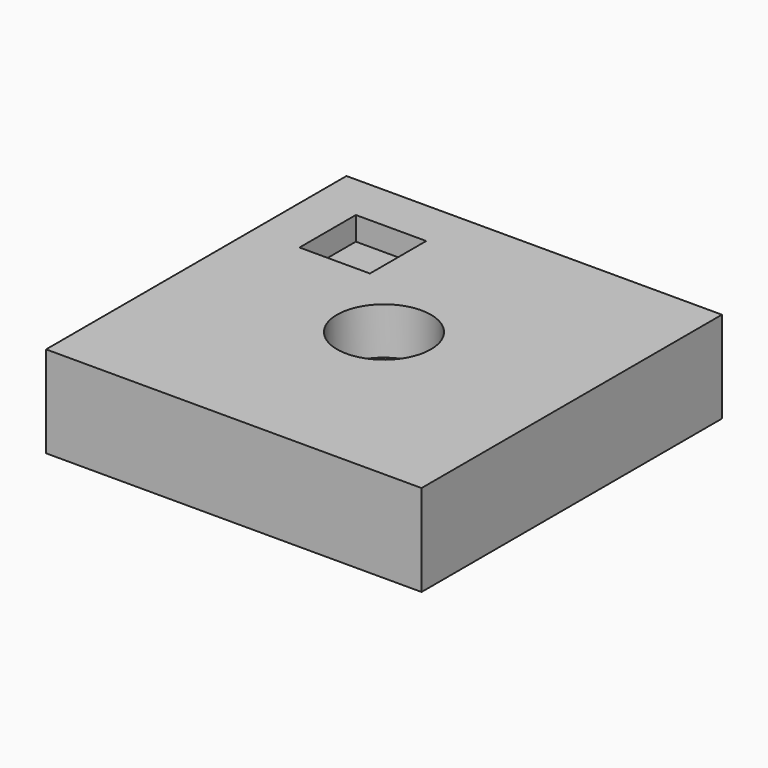
from build123d import *

# Parameters (mm, degrees)
F0_W     = 101.6
F0_H     = 101.6
F1_DEPTH = 24.765
F2_W     = 19.05
F2_H     = 19.05
F3_DEPTH = 6.35
F2_R     = 12.7
F4_DEPTH = 12.7


with BuildPart() as f1:
    # F0 (on Top) → F1 (new body)
    with BuildSketch(Plane.XY):
        Rectangle(F0_W, F0_H)
    extrude(amount=F1_DEPTH)

    # F2 (on face) → F3 (cut)
    with BuildSketch(Plane.XY.offset(24.765)):
        with Locations((-28.575, 28.575)):
            Rectangle(F2_W, F2_H)
    extrude(amount=-F3_DEPTH, mode=Mode.SUBTRACT)

    # F2 (on face) → F4 (cut)
    with BuildSketch(Plane.XY.offset(24.765)):
        Circle(F2_R)
    extrude(amount=-F4_DEPTH, mode=Mode.SUBTRACT)


solid = f1.part
